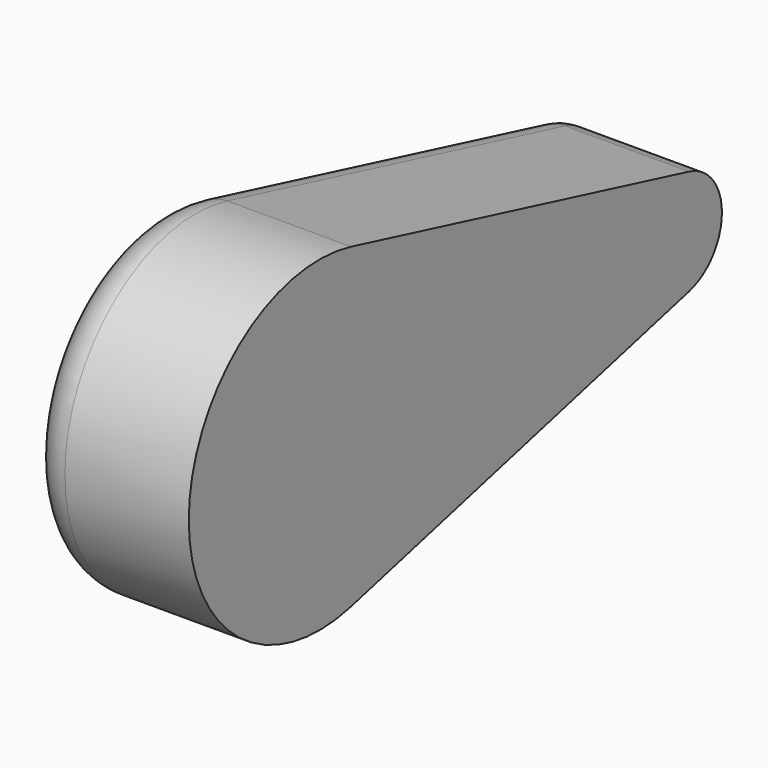
from build123d import *

# Parameters (mm, degrees)
F1_DEPTH = 3
F2_R     = 0.724264


with BuildPart() as f1:
    # F0 (on Right) → F1 (new body)
    with BuildSketch(Plane.YZ):
        with BuildLine():
            ThreePointArc((16.614459, 14.342597), (18.251469, 15.406788), (18.886853, 17.253025))
            ThreePointArc((18.886853, 17.253025), (18.251469, 19.099261), (16.614459, 20.163452))
            ThreePointArc((16.614459, 20.163452), (12.886853, 17.253025), (16.614459, 14.342597))
        make_face()
        with BuildLine():
            ThreePointArc((16.614459, 20.163452), (18.251469, 19.099261), (18.886853, 17.253025))
            ThreePointArc((18.886853, 17.253025), (18.251469, 15.406788), (16.614459, 14.342597))
            Line((16.614459, 14.342597), (24.375599, 16.282882))
            ThreePointArc((24.375599, 16.282882), (23.133064, 17.253025), (24.375599, 18.223167))
            Line((24.375599, 18.223167), (16.614459, 20.163452))
        make_face()
        with BuildLine():
            ThreePointArc((25.133064, 17.253025), (24.921269, 17.868437), (24.375599, 18.223167))
            ThreePointArc((24.375599, 18.223167), (23.133064, 17.253025), (24.375599, 16.282882))
            ThreePointArc((24.375599, 16.282882), (24.921269, 16.637612), (25.133064, 17.253025))
        make_face()
    extrude(amount=F1_DEPTH)

    # F2
    f2_edges = [f1.edges().sort_by_distance(p)[0] for p in [
        (0, 20.495029, 19.19331),
    ]]
    fillet(f2_edges, radius=F2_R)


solid = f1.part
